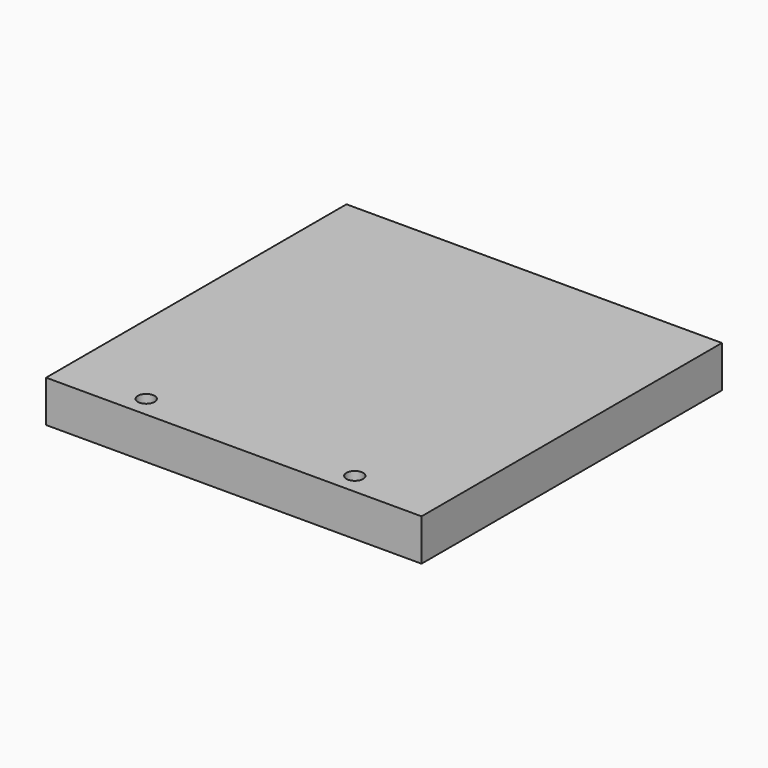
from build123d import *

# Parameters (mm, degrees)
SKETCH010_W     = 45
SKETCH010_H     = 45
PAD002_DEPTH    = 5
SKETCH011_R     = 1
POCKET008_DEPTH = 5
SKETCH012_R     = 2
POCKET009_DEPTH = 2


with BuildPart() as part:
    # Sketch010 → Pad002 (new body)
    with BuildSketch(Plane.XY):
        with Locations((22.5, 17.5)):
            Rectangle(SKETCH010_W, SKETCH010_H)
    extrude(amount=-PAD002_DEPTH)

    # Sketch011 (on Face6 of Pad002) → Pocket008 (cut)
    with BuildSketch(Plane(origin=(0, 0, -5), x_dir=(1, 0, 0), z_dir=(0, 0, -1))):
        with Locations((10, 2.5)):
            Circle(SKETCH011_R)
        with Locations((35, 2.5)):
            Circle(SKETCH011_R)
    extrude(amount=-POCKET008_DEPTH, mode=Mode.SUBTRACT)

    # Sketch012 (on Face5 of Pocket008) → Pocket009 (cut)
    with BuildSketch(Plane(origin=(0, 0, -5), x_dir=(1, 0, 0), z_dir=(0, 0, -1))):
        with Locations((10, 2.5)):
            Circle(SKETCH012_R)
        with Locations((35, 2.5)):
            Circle(SKETCH012_R)
    extrude(amount=-POCKET009_DEPTH, mode=Mode.SUBTRACT)


solid = part.part
